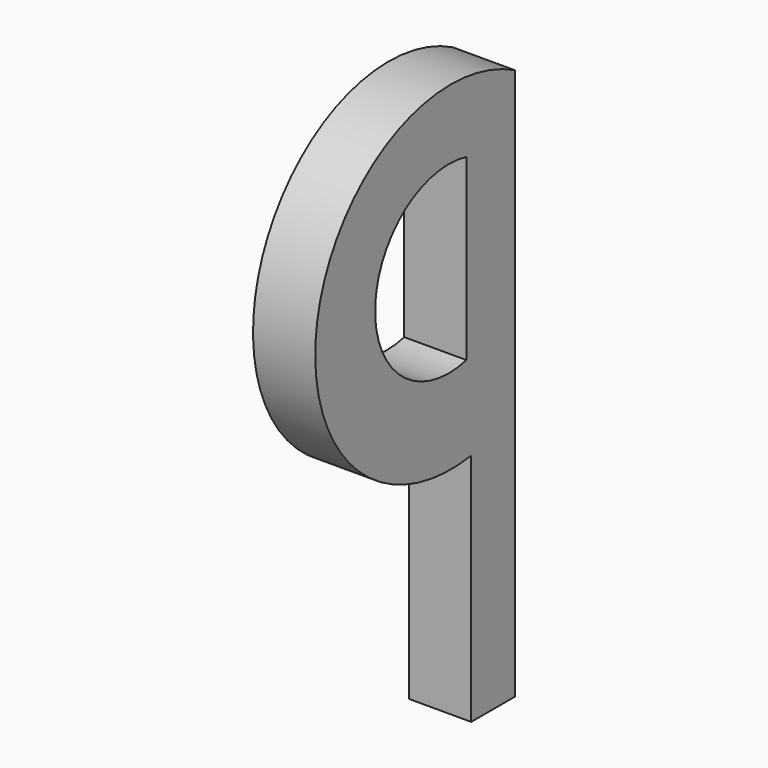
from build123d import *

# Parameters (mm, degrees)
F1_DEPTH = 17.272


with BuildPart() as f1:
    # F0 (on Right) → F1 (new body)
    with BuildSketch(Plane.YZ):
        with BuildLine():
            Line((56.972638, -76.561294), (56.972638, 76.561294))
            ThreePointArc((56.972638, 76.561294), (-11.648239, 43.078849), (41.798327, -11.449708))
            Line((41.798327, -11.449708), (41.798327, -76.561294))
            Line((41.798327, -76.561294), (56.972638, -76.561294))
        make_face()
        with BuildLine():
            ThreePointArc((40.14295, 12.553293), (8.450121, 37.383983), (40.14295, 62.214673))
            Line((40.14295, 62.214673), (40.14295, 12.553293))
        make_face(mode=Mode.SUBTRACT)
    extrude(amount=F1_DEPTH)


solid = f1.part
